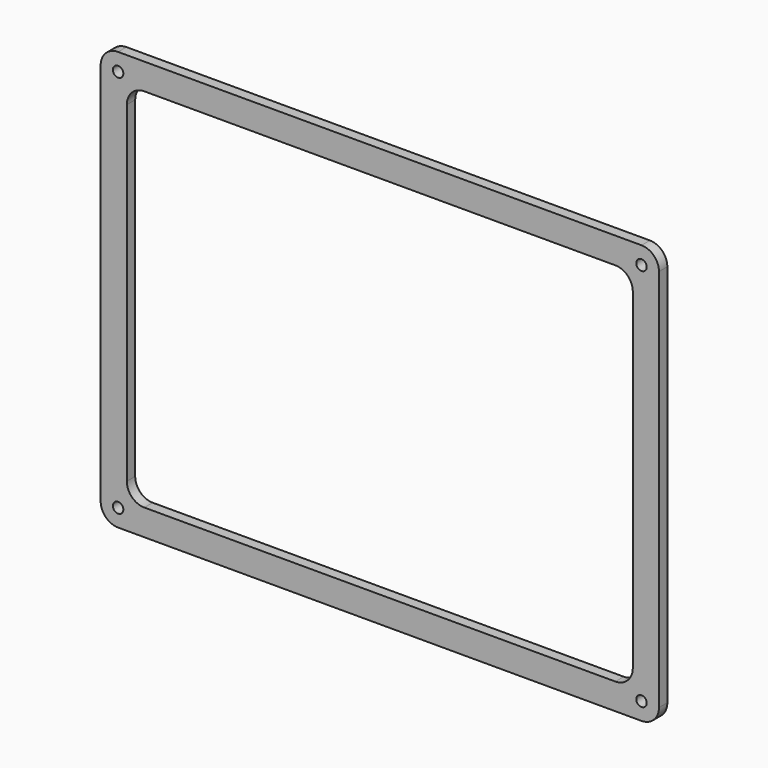
from build123d import *

# Parameters (mm, degrees)
F1_DEPTH = 3
F2_R     = 1.5
F3_DEPTH = 25
F5_DEPTH = 3


with BuildPart() as f1:
    # F0 (on Front) → F1 (new body)
    with BuildSketch(Plane.XZ):
        with BuildLine():
            Line((-75, -60), (75, -60))
            ThreePointArc((75, -60), (78.535534, -58.535534), (80, -55))
            Line((80, -55), (80, 55))
            ThreePointArc((80, 55), (78.535534, 58.535534), (75, 60))
            Line((75, 60), (-75, 60))
            ThreePointArc((-75, 60), (-78.535534, 58.535534), (-80, 55))
            Line((-80, 55), (-80, -55))
            ThreePointArc((-80, -55), (-78.535534, -58.535534), (-75, -60))
        make_face()
    extrude(amount=F1_DEPTH)

    # F2 (on Front) → F3 (cut)
    with BuildSketch(Plane.XZ):
        with Locations((-75, 55)):
            Circle(F2_R)
        with Locations((75, 55)):
            Circle(F2_R)
        with Locations((75, -55)):
            Circle(F2_R)
        with Locations((-75, -55)):
            Circle(F2_R)
    extrude(amount=F3_DEPTH, mode=Mode.SUBTRACT)

    # F4 (on face) → F5 (cut)
    with BuildSketch(Plane.XZ.offset(3)):
        with BuildLine():
            ThreePointArc((72.5, 47.5), (71.035534, 51.035534), (67.5, 52.5))
            Line((67.5, 52.5), (-67.5, 52.5))
            ThreePointArc((-67.5, 52.5), (-71.035534, 51.035534), (-72.5, 47.5))
            Line((-72.5, 47.5), (-72.5, -47.5))
            ThreePointArc((-72.5, -47.5), (-71.035534, -51.035534), (-67.5, -52.5))
            Line((-67.5, -52.5), (67.5, -52.5))
            ThreePointArc((67.5, -52.5), (71.035534, -51.035534), (72.5, -47.5))
            Line((72.5, -47.5), (72.5, 47.5))
        make_face()
    extrude(amount=-F5_DEPTH, mode=Mode.SUBTRACT)


solid = f1.part
